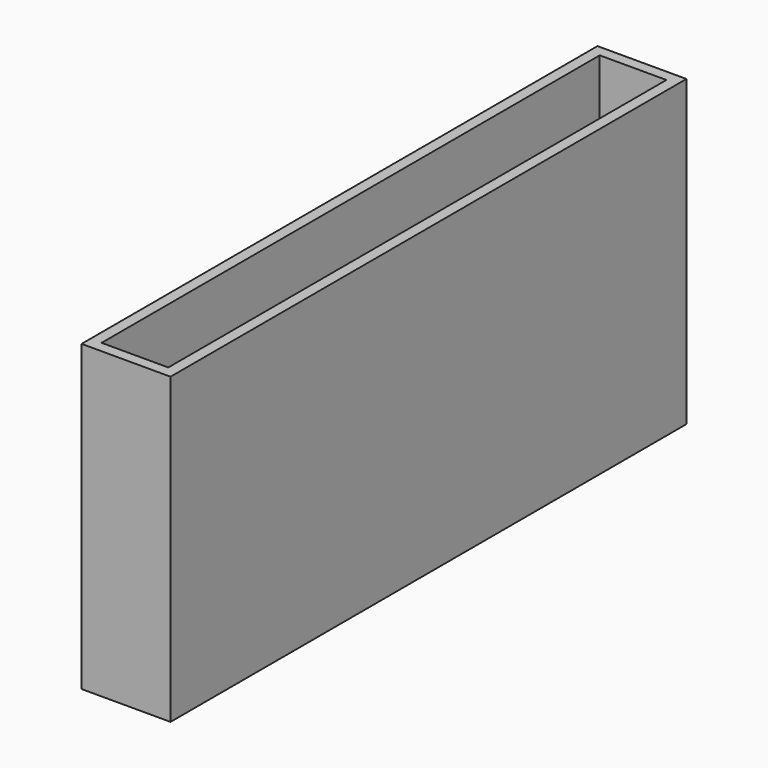
from build123d import *

# Parameters (mm, degrees)
F0_W     = 152.4
F0_H     = 520.7
F1_DEPTH = 1104.9
F2_W     = 114.3
F2_H     = 1066.8
F3_DEPTH = 520.701


with BuildPart() as f1:
    # F0 (on Front) → F1 (new body)
    with BuildSketch(Plane.XZ):
        with Locations((76.2, -260.35)):
            Rectangle(F0_W, F0_H)
    extrude(amount=-F1_DEPTH)

    # F2 (on face) → F3 (cut, through all)
    with BuildSketch(Plane.XY):
        with Locations((76.2, 552.45)):
            Rectangle(F2_W, F2_H)
    extrude(amount=-F3_DEPTH, mode=Mode.SUBTRACT)


solid = f1.part
